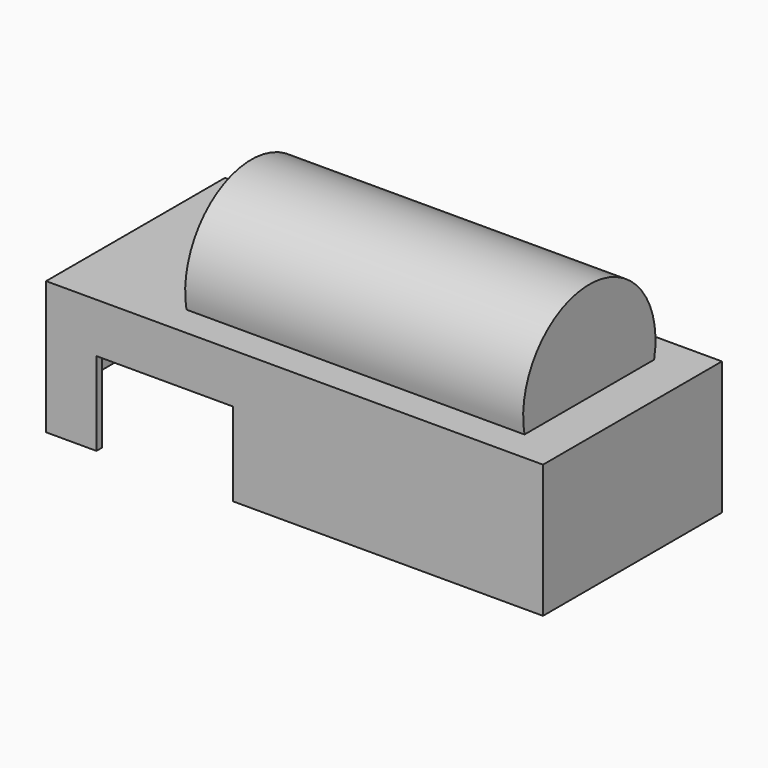
from build123d import *

# Parameters (mm, degrees)
SKETCH001_W       = 69.1
SKETCH001_H       = 31.1
PAD_DEPTH         = 18.51
CYLINDER_R        = 11.5
CYLINDER_DEPTH    = 47
CYLINDER001_R     = 10.5
CYLINDER001_DEPTH = 45
BOX_W             = 67.1
BOX_H             = 29.1
BOX_DEPTH         = 17.51
SKETCH003_W       = 6
SKETCH003_H       = 4.5
SKETCH003_R       = 1
SKETCH003_H_2     = 6.5
PAD001_DEPTH      = 10.7
SKETCH004_W       = 8
SKETCH004_H       = 17.51
POCKET_DEPTH      = 5
SKETCH005_W       = 3
SKETCH005_H       = 13.55
PAD002_DEPTH      = 10.7
SKETCH006_W       = 19
SKETCH006_H       = 11.61
POCKET001_DEPTH   = 5
SKETCH007_W       = 22
SKETCH007_H       = 4.51
POCKET002_DEPTH   = 5


with BuildPart() as part:
    # Sketch001 → Pad (new body)
    with BuildSketch(Plane.XY):
        Rectangle(SKETCH001_W, SKETCH001_H)
    extrude(amount=PAD_DEPTH)

    # Cylinder → Cylinder (join)
    with BuildSketch(Plane(origin=(28.55, 0, 20.81), x_dir=(0, -1, 0), z_dir=(-1, 0, 0))):
        Circle(CYLINDER_R)
    extrude(amount=CYLINDER_DEPTH)

    # Cylinder001 → Cylinder001 (cut)
    with BuildSketch(Plane(origin=(27.55, 0, 20.81), x_dir=(0, 1, 0), z_dir=(-1, 0, 0))):
        Circle(CYLINDER001_R)
    extrude(amount=CYLINDER001_DEPTH, mode=Mode.SUBTRACT)

    # Box → Box (cut)
    with BuildSketch(Plane(origin=(-33.55, -14.55, 0), x_dir=(1, 0, 0), z_dir=(0, 0, 1))):
        with Locations((33.55, 14.55)):
            Rectangle(BOX_W, BOX_H)
    extrude(amount=BOX_DEPTH, mode=Mode.SUBTRACT)

    # Sketch003 (on Face15 of Box) → Pad001 (join)
    with BuildSketch(Plane(origin=(-33.55, -14.55, 17.51), x_dir=(1, 0, 0), z_dir=(0, 0, -1))):
        with Locations((64.1, -2.25)):
            Rectangle(SKETCH003_W, SKETCH003_H)
        with Locations((63.1, -2.5)):
            Circle(SKETCH003_R, mode=Mode.SUBTRACT)
        with Locations((64.1, -25.85)):
            Rectangle(SKETCH003_W, SKETCH003_H_2)
        with Locations((63.1, -24.6)):
            Circle(SKETCH003_R, mode=Mode.SUBTRACT)
    extrude(amount=PAD001_DEPTH)

    # Sketch004 (on Face2 of Pad001) → Pocket (cut)
    with BuildSketch(Plane(origin=(-33.55, 15.55, 0), x_dir=(-1, 0, 0), z_dir=(0, 1, 0))):
        with Locations((-15.5, 8.755)):
            Rectangle(SKETCH004_W, SKETCH004_H)
    extrude(amount=-POCKET_DEPTH, mode=Mode.SUBTRACT)

    # Sketch005 (on Face20 of Pocket) → Pad002 (join)
    with BuildSketch(Plane(origin=(-33.55, -14.55, 17.51), x_dir=(1, 0, 0), z_dir=(0, 0, -1))):
        with Locations((1.5, -13.55)):
            Rectangle(SKETCH005_W, SKETCH005_H)
    extrude(amount=PAD002_DEPTH)

    # Sketch006 (on Face3 of Pad002) → Pocket001 (cut)
    with BuildSketch(Plane(origin=(-33.55, -15.55, 0), x_dir=(1, 0, 0), z_dir=(0, -1, 0))):
        with Locations((15.5, 5.805)):
            Rectangle(SKETCH006_W, SKETCH006_H)
    extrude(amount=-POCKET001_DEPTH, mode=Mode.SUBTRACT)

    # Sketch007 (on Face1 of Pocket001) → Pocket002 (cut)
    with BuildSketch(Plane(origin=(-34.55, -14.55, 0), x_dir=(0, -1, 0), z_dir=(-1, 0, 0))):
        with Locations((-13.55, 2.255)):
            Rectangle(SKETCH007_W, SKETCH007_H)
    extrude(amount=-POCKET002_DEPTH, mode=Mode.SUBTRACT)


solid = part.part
